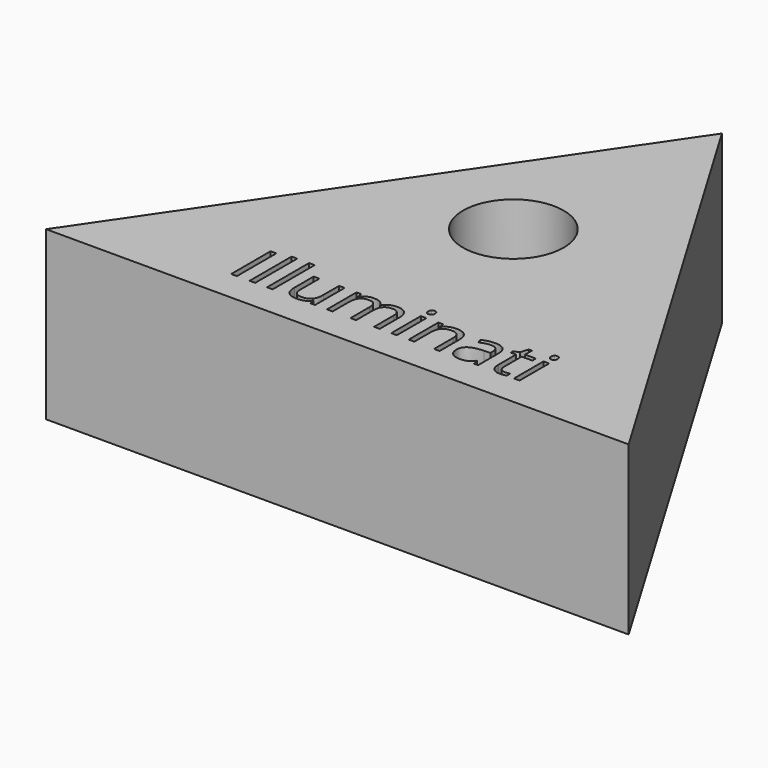
from build123d import *

# Parameters (mm, degrees)
F0_W     = 0.869968364
F0_H     = 7.4856599907
F0_W_2   = 0.850308062
F0_H_2   = 7.96733739
F0_H_3   = 5.6113778656
F1_DEPTH = 25.4
F2_R     = 8.2585004596
F3_DEPTH = 25.4
F4_DEPTH = 25.4
F5_R     = 7.6325291167
F6_DEPTH = 25.4


with BuildPart() as f1:
    # F0 (on Top) → F1 (new body)
    with BuildSketch(Plane.XY):
        Polygon((41.2079915404, -22.3341081291), (0, 46.8701533973), (-47.1847243607, -22.3341081291), align=None)
        with Locations((-22.4430542352, -13.8728049527)):
            Rectangle(F0_W, F0_H, mode=Mode.SUBTRACT)
        with BuildLine():
            Line((-14.8386132532, -12.0042570824), (-13.9784750403, -12.0042570824))
            Line((-13.9784750403, -12.0042570824), (-13.9784750403, -15.6446896714))
            add(Edge.make_bspline(
                [(-13.9784750403, -15.6446896714), (-13.9784750403, -16.3311618833), (-13.6663677458, -16.6686637345)],
                knots=[0, 0, 0, 1, 1, 1], degree=2))
            add(Edge.make_bspline(
                [(-13.6663677458, -16.6686637345), (-13.3542604514, -17.0061655857), (-12.6890869, -17.0061655857)],
                knots=[0, 0, 0, 1, 1, 1], degree=2))
            add(Edge.make_bspline(
                [(-12.6890869, -17.0061655857), (-11.8076500265, -17.0061655857), (-11.4013371183, -16.5253073657)],
                knots=[0, 0, 0, 1, 1, 1], degree=2))
            add(Edge.make_bspline(
                [(-11.4013371183, -16.5253073657), (-10.9950242101, -16.0444491456), (-10.9950242101, -14.953302384)],
                knots=[0, 0, 0, 1, 1, 1], degree=2))
            Line((-10.9950242101, -14.953302384), (-10.9950242101, -12.0042570824))
            Line((-10.9950242101, -12.0042570824), (-10.1447161481, -12.0042570824))
            Line((-10.1447161481, -12.0042570824), (-10.1447161481, -17.615634948))
            Line((-10.1447161481, -17.615634948), (-10.8459335865, -17.615634948))
            Line((-10.8459335865, -17.615634948), (-10.9688104741, -16.8636283961))
            Line((-10.9688104741, -16.8636283961), (-11.0146845121, -16.8636283961))
            add(Edge.make_bspline(
                [(-11.0146845121, -16.8636283961), (-11.2751835137, -17.2781330968), (-11.7388389695, -17.4984923152)],
                knots=[0, 0, 0, 1, 1, 1], degree=2))
            add(Edge.make_bspline(
                [(-11.7388389695, -17.4984923152), (-12.2024944253, -17.7188515336), (-12.7972185611, -17.7188515336)],
                knots=[0, 0, 0, 1, 1, 1], degree=2))
            add(Edge.make_bspline(
                [(-12.7972185611, -17.7188515336), (-13.8211926242, -17.7188515336), (-14.3299029387, -17.2322590588)],
                knots=[0, 0, 0, 1, 1, 1], degree=2))
            add(Edge.make_bspline(
                [(-14.3299029387, -17.2322590588), (-14.8386132532, -16.745666584), (-14.8386132532, -15.6758184829)],
                knots=[0, 0, 0, 1, 1, 1], degree=2))
            Line((-14.8386132532, -15.6758184829), (-14.8386132532, -12.0042570824))
        make_face(mode=Mode.SUBTRACT)
        with BuildLine():
            Line((-0.3407788786, -17.615634948), (-1.1894485821, -17.615634948))
            Line((-1.1894485821, -17.615634948), (-1.1894485821, -13.965372208))
            add(Edge.make_bspline(
                [(-1.1894485821, -13.965372208), (-1.1894485821, -13.2936452226), (-1.4761613198, -12.9586009092)],
                knots=[0, 0, 0, 1, 1, 1], degree=2))
            add(Edge.make_bspline(
                [(-1.4761613198, -12.9586009092), (-1.7628740574, -12.6235565957), (-2.3674283443, -12.6235565957)],
                knots=[0, 0, 0, 1, 1, 1], degree=2))
            add(Edge.make_bspline(
                [(-2.3674283443, -12.6235565957), (-3.1603938587, -12.6235565957), (-3.5396738517, -13.079020259)],
                knots=[0, 0, 0, 1, 1, 1], degree=2))
            add(Edge.make_bspline(
                [(-3.5396738517, -13.079020259), (-3.9189538446, -13.5344839222), (-3.9189538446, -14.4814551358)],
                knots=[0, 0, 0, 1, 1, 1], degree=2))
            Line((-3.9189538446, -14.4814551358), (-3.9189538446, -17.615634948))
            Line((-3.9189538446, -17.615634948), (-4.7692619066, -17.615634948))
            Line((-4.7692619066, -17.615634948), (-4.7692619066, -13.965372208))
            add(Edge.make_bspline(
                [(-4.7692619066, -13.965372208), (-4.7692619066, -13.2936452226), (-5.0559746443, -12.9586009092)],
                knots=[0, 0, 0, 1, 1, 1], degree=2))
            add(Edge.make_bspline(
                [(-5.0559746443, -12.9586009092), (-5.3426873819, -12.6235565957), (-5.9521567443, -12.6235565957)],
                knots=[0, 0, 0, 1, 1, 1], degree=2))
            add(Edge.make_bspline(
                [(-5.9521567443, -12.6235565957), (-6.7500373342, -12.6235565957), (-7.1211255347, -13.101957278)],
                knots=[0, 0, 0, 1, 1, 1], degree=2))
            add(Edge.make_bspline(
                [(-7.1211255347, -13.101957278), (-7.4922137351, -13.5803579603), (-7.4922137351, -14.6715047219)],
                knots=[0, 0, 0, 1, 1, 1], degree=2))
            Line((-7.4922137351, -14.6715047219), (-7.4922137351, -17.615634948))
            Line((-7.4922137351, -17.615634948), (-8.3425217971, -17.615634948))
            Line((-8.3425217971, -17.615634948), (-8.3425217971, -12.0042570824))
            Line((-8.3425217971, -12.0042570824), (-7.6511345097, -12.0042570824))
            Line((-7.6511345097, -12.0042570824), (-7.5135123956, -12.7726472193))
            Line((-7.5135123956, -12.7726472193), (-7.4725534331, -12.7726472193))
            add(Edge.make_bspline(
                [(-7.4725534331, -12.7726472193), (-7.2317147335, -12.3630575941), (-6.7934538345, -12.1320490455)],
                knots=[0, 0, 0, 1, 1, 1], degree=2))
            add(Edge.make_bspline(
                [(-6.7934538345, -12.1320490455), (-6.3551929355, -11.9010404968), (-5.8128962717, -11.9010404968)],
                knots=[0, 0, 0, 1, 1, 1], degree=2))
            add(Edge.make_bspline(
                [(-5.8128962717, -11.9010404968), (-4.4972943955, -11.9010404968), (-4.0926198457, -12.8545651444)],
                knots=[0, 0, 0, 1, 1, 1], degree=2))
            Line((-4.0926198457, -12.8545651444), (-4.0516608832, -12.8545651444))
            add(Edge.make_bspline(
                [(-4.0516608832, -12.8545651444), (-3.8009920326, -12.4138467076), (-3.325048888, -12.1574436022)],
                knots=[0, 0, 0, 1, 1, 1], degree=2))
            add(Edge.make_bspline(
                [(-3.325048888, -12.1574436022), (-2.8491057435, -11.9010404968), (-2.2396363812, -11.9010404968)],
                knots=[0, 0, 0, 1, 1, 1], degree=2))
            add(Edge.make_bspline(
                [(-2.2396363812, -11.9010404968), (-1.2877500922, -11.9010404968), (-0.8142644854, -12.3900905093)],
                knots=[0, 0, 0, 1, 1, 1], degree=2))
            add(Edge.make_bspline(
                [(-0.8142644854, -12.3900905093), (-0.3407788786, -12.8791405219), (-0.3407788786, -13.955542057)],
                knots=[0, 0, 0, 1, 1, 1], degree=2))
            Line((-0.3407788786, -13.955542057), (-0.3407788786, -17.615634948))
        make_face(mode=Mode.SUBTRACT)
        with Locations((-19.6578447837, -13.631966253)):
            Rectangle(F0_W_2, F0_H_2, mode=Mode.SUBTRACT)
        with Locations((-17.0053423707, -13.631966253)):
            Rectangle(F0_W_2, F0_H_2, mode=Mode.SUBTRACT)
        with Locations((1.8357803898, -14.8099460152)):
            Rectangle(F0_W_2, F0_H_3, mode=Mode.SUBTRACT)
        with BuildLine():
            Line((8.75374916, -17.615634948), (7.903441098, -17.615634948))
            Line((7.903441098, -17.615634948), (7.903441098, -13.98503251))
            add(Edge.make_bspline(
                [(7.903441098, -13.98503251), (7.903441098, -13.3001986566), (7.5913338036, -12.9618776262)],
                knots=[0, 0, 0, 1, 1, 1], degree=2))
            add(Edge.make_bspline(
                [(7.5913338036, -12.9618776262), (7.2792265091, -12.6235565957), (6.6124145993, -12.6235565957)],
                knots=[0, 0, 0, 1, 1, 1], degree=2))
            add(Edge.make_bspline(
                [(6.6124145993, -12.6235565957), (5.7326160843, -12.6235565957), (5.323026459, -13.0994997402)],
                knots=[0, 0, 0, 1, 1, 1], degree=2))
            add(Edge.make_bspline(
                [(5.323026459, -13.0994997402), (4.9134368338, -13.5754428848), (4.9134368338, -14.6715047219)],
                knots=[0, 0, 0, 1, 1, 1], degree=2))
            Line((4.9134368338, -14.6715047219), (4.9134368338, -17.615634948))
            Line((4.9134368338, -17.615634948), (4.0631287718, -17.615634948))
            Line((4.0631287718, -17.615634948), (4.0631287718, -12.0042570824))
            Line((4.0631287718, -12.0042570824), (4.7545160592, -12.0042570824))
            Line((4.7545160592, -12.0042570824), (4.8921381733, -12.7726472193))
            Line((4.8921381733, -12.7726472193), (4.9330971358, -12.7726472193))
            add(Edge.make_bspline(
                [(4.9330971358, -12.7726472193), (5.195234496, -12.3581425186), (5.666262565, -12.1295915077)],
                knots=[0, 0, 0, 1, 1, 1], degree=2))
            add(Edge.make_bspline(
                [(5.666262565, -12.1295915077), (6.137290634, -11.9010404968), (6.7156311848, -11.9010404968)],
                knots=[0, 0, 0, 1, 1, 1], degree=2))
            add(Edge.make_bspline(
                [(6.7156311848, -11.9010404968), (7.7297750969, -11.9010404968), (8.2417621284, -12.3900905093)],
                knots=[0, 0, 0, 1, 1, 1], degree=2))
            add(Edge.make_bspline(
                [(8.2417621284, -12.3900905093), (8.75374916, -12.8791405219), (8.75374916, -13.955542057)],
                knots=[0, 0, 0, 1, 1, 1], degree=2))
            Line((8.75374916, -13.955542057), (8.75374916, -17.615634948))
        make_face(mode=Mode.SUBTRACT)
        with BuildLine():
            Line((14.5797519892, -17.615634948), (13.9489839664, -17.615634948))
            Line((13.9489839664, -17.615634948), (13.7802330408, -16.8161159996))
            Line((13.7802330408, -16.8161159996), (13.7392740782, -16.8161159996))
            add(Edge.make_bspline(
                [(13.7392740782, -16.8161159996), (13.319854302, -17.3436674369), (12.9028920635, -17.5312594852)],
                knots=[0, 0, 0, 1, 1, 1], degree=2))
            add(Edge.make_bspline(
                [(12.9028920635, -17.5312594852), (12.485929825, -17.7188515336), (11.8600768777, -17.7188515336)],
                knots=[0, 0, 0, 1, 1, 1], degree=2))
            add(Edge.make_bspline(
                [(11.8600768777, -17.7188515336), (11.0261524007, -17.7188515336), (10.552666794, -17.2879632478)],
                knots=[0, 0, 0, 1, 1, 1], degree=2))
            add(Edge.make_bspline(
                [(10.552666794, -17.2879632478), (10.0791811872, -16.8570749621), (10.0791811872, -16.0641094476)],
                knots=[0, 0, 0, 1, 1, 1], degree=2))
            add(Edge.make_bspline(
                [(10.0791811872, -16.0641094476), (10.0791811872, -14.3651316822), (12.7972179402, -14.2832137572)],
                knots=[0, 0, 0, 1, 1, 1], degree=2))
            Line((12.7972179402, -14.2832137572), (13.7491042292, -14.2520849456))
            Line((13.7491042292, -14.2520849456), (13.7491042292, -13.9031145849))
            add(Edge.make_bspline(
                [(13.7491042292, -13.9031145849), (13.7491042292, -13.2428561091), (13.4656682086, -12.9282912769)],
                knots=[0, 0, 0, 1, 1, 1], degree=2))
            add(Edge.make_bspline(
                [(13.4656682086, -12.9282912769), (13.1822321879, -12.6137264447), (12.5563792406, -12.6137264447)],
                knots=[0, 0, 0, 1, 1, 1], degree=2))
            add(Edge.make_bspline(
                [(12.5563792406, -12.6137264447), (11.8551618022, -12.6137264447), (10.9704482117, -13.042976372)],
                knots=[0, 0, 0, 1, 1, 1], degree=2))
            Line((10.9704482117, -13.042976372), (10.7083108515, -12.3925480471))
            add(Edge.make_bspline(
                [(10.7083108515, -12.3925480471), (11.1228155523, -12.1680929325), (11.6167806403, -12.0403009694)],
                knots=[0, 0, 0, 1, 1, 1], degree=2))
            add(Edge.make_bspline(
                [(11.6167806403, -12.0403009694), (12.1107457283, -11.9125090063), (12.6088067126, -11.9125090063)],
                knots=[0, 0, 0, 1, 1, 1], degree=2))
            add(Edge.make_bspline(
                [(12.6088067126, -11.9125090063), (13.6114821152, -11.9125090063), (14.0956170522, -12.3573233393)],
                knots=[0, 0, 0, 1, 1, 1], degree=2))
            add(Edge.make_bspline(
                [(14.0956170522, -12.3573233393), (14.5797519892, -12.8021376723), (14.5797519892, -13.7851527729)],
                knots=[0, 0, 0, 1, 1, 1], degree=2))
            Line((14.5797519892, -13.7851527729), (14.5797519892, -17.615634948))
        make_face(mode=Mode.SUBTRACT)
        with BuildLine():
            add(Edge.make_bspline(
                [(17.4812848943, -16.7448474048), (17.722123594, -17.0159957367), (18.1415433702, -17.0159957367)],
                knots=[0, 0, 0, 1, 1, 1], degree=2))
            add(Edge.make_bspline(
                [(18.1415433702, -17.0159957367), (18.3676368433, -17.0159957367), (18.5773467314, -16.9832285667)],
                knots=[0, 0, 0, 1, 1, 1], degree=2))
            add(Edge.make_bspline(
                [(18.5773467314, -16.9832285667), (18.7870566196, -16.9504613966), (18.9099335071, -16.9144175096)],
                knots=[0, 0, 0, 1, 1, 1], degree=2))
            Line((18.9099335071, -16.9144175096), (18.9099335071, -17.5648458345))
            add(Edge.make_bspline(
                [(18.9099335071, -17.5648458345), (18.772311393, -17.6303801745), (18.5036205989, -17.674615854)],
                knots=[0, 0, 0, 1, 1, 1], degree=2))
            add(Edge.make_bspline(
                [(18.5036205989, -17.674615854), (18.2349298047, -17.7188515336), (18.0186664826, -17.7188515336)],
                knots=[0, 0, 0, 1, 1, 1], degree=2))
            add(Edge.make_bspline(
                [(18.0186664826, -17.7188515336), (16.3917764912, -17.7188515336), (16.3917764912, -16.0034901831)],
                knots=[0, 0, 0, 1, 1, 1], degree=2))
            Line((16.3917764912, -16.0034901831), (16.3917764912, -12.6645155582))
            Line((16.3917764912, -12.6645155582), (15.5873424673, -12.6645155582))
            Line((15.5873424673, -12.6645155582), (15.5873424673, -12.254925933))
            Line((15.5873424673, -12.254925933), (16.3917764912, -11.9010404968))
            Line((16.3917764912, -11.9010404968), (16.7489386444, -10.7034004327))
            Line((16.7489386444, -10.7034004327), (17.2404461947, -10.7034004327))
            Line((17.2404461947, -10.7034004327), (17.2404461947, -12.0042570824))
            Line((17.2404461947, -12.0042570824), (18.8689745446, -12.0042570824))
            Line((18.8689745446, -12.0042570824), (18.8689745446, -12.6645155582))
            Line((18.8689745446, -12.6645155582), (17.2404461947, -12.6645155582))
            Line((17.2404461947, -12.6645155582), (17.2404461947, -15.9674462961))
            add(Edge.make_bspline(
                [(17.2404461947, -15.9674462961), (17.2404461947, -16.4736990729), (17.4812848943, -16.7448474048)],
                knots=[0, 0, 0, 1, 1, 1], degree=2))
        make_face(mode=Mode.SUBTRACT)
        with BuildLine():
            add(Edge.make_bspline(
                [(1.4818949536, -10.9114719623), (1.3385385848, -10.7705731312), (1.3385385848, -10.4838603935)],
                knots=[0, 0, 0, 1, 1, 1], degree=2))
            add(Edge.make_bspline(
                [(1.3385385848, -10.4838603935), (1.3385385848, -10.1922325804), (1.4818949536, -10.0562488248)],
                knots=[0, 0, 0, 1, 1, 1], degree=2))
            add(Edge.make_bspline(
                [(1.4818949536, -10.0562488248), (1.6252513225, -9.9202650692), (1.8415146446, -9.9202650692)],
                knots=[0, 0, 0, 1, 1, 1], degree=2))
            add(Edge.make_bspline(
                [(1.8415146446, -9.9202650692), (2.0463094572, -9.9202650692), (2.1945809015, -10.0587063625)],
                knots=[0, 0, 0, 1, 1, 1], degree=2))
            add(Edge.make_bspline(
                [(2.1945809015, -10.0587063625), (2.3428523459, -10.1971476559), (2.3428523459, -10.4838603935)],
                knots=[0, 0, 0, 1, 1, 1], degree=2))
            add(Edge.make_bspline(
                [(2.3428523459, -10.4838603935), (2.3428523459, -10.7705731312), (2.1945809015, -10.9114719623)],
                knots=[0, 0, 0, 1, 1, 1], degree=2))
            add(Edge.make_bspline(
                [(2.1945809015, -10.9114719623), (2.0463094572, -11.0523707933), (1.8415146446, -11.0523707933)],
                knots=[0, 0, 0, 1, 1, 1], degree=2))
            add(Edge.make_bspline(
                [(1.8415146446, -11.0523707933), (1.6252513225, -11.0523707933), (1.4818949536, -10.9114719623)],
                knots=[0, 0, 0, 1, 1, 1], degree=2))
        make_face(mode=Mode.SUBTRACT)
        with Locations((20.4557247527, -14.8099460152)):
            Rectangle(F0_W_2, F0_H_3, mode=Mode.SUBTRACT)
        with BuildLine():
            add(Edge.make_bspline(
                [(20.1018393165, -10.9114719623), (19.9584829477, -10.7705731312), (19.9584829477, -10.4838603935)],
                knots=[0, 0, 0, 1, 1, 1], degree=2))
            add(Edge.make_bspline(
                [(19.9584829477, -10.4838603935), (19.9584829477, -10.1922325804), (20.1018393165, -10.0562488248)],
                knots=[0, 0, 0, 1, 1, 1], degree=2))
            add(Edge.make_bspline(
                [(20.1018393165, -10.0562488248), (20.2451956854, -9.9202650692), (20.4614590075, -9.9202650692)],
                knots=[0, 0, 0, 1, 1, 1], degree=2))
            add(Edge.make_bspline(
                [(20.4614590075, -9.9202650692), (20.6662538201, -9.9202650692), (20.8145252644, -10.0587063625)],
                knots=[0, 0, 0, 1, 1, 1], degree=2))
            add(Edge.make_bspline(
                [(20.8145252644, -10.0587063625), (20.9627967088, -10.1971476559), (20.9627967088, -10.4838603935)],
                knots=[0, 0, 0, 1, 1, 1], degree=2))
            add(Edge.make_bspline(
                [(20.9627967088, -10.4838603935), (20.9627967088, -10.7705731312), (20.8145252644, -10.9114719623)],
                knots=[0, 0, 0, 1, 1, 1], degree=2))
            add(Edge.make_bspline(
                [(20.8145252644, -10.9114719623), (20.6662538201, -11.0523707933), (20.4614590075, -11.0523707933)],
                knots=[0, 0, 0, 1, 1, 1], degree=2))
            add(Edge.make_bspline(
                [(20.4614590075, -11.0523707933), (20.2451956854, -11.0523707933), (20.1018393165, -10.9114719623)],
                knots=[0, 0, 0, 1, 1, 1], degree=2))
        make_face(mode=Mode.SUBTRACT)
    extrude(amount=F1_DEPTH)

    # F2 (on face) → F3 (cut)
    with BuildSketch(Plane.XY.offset(25.4)):
        with Locations((0, 17.6369454712)):
            Circle(F2_R)
    extrude(amount=-F3_DEPTH, mode=Mode.SUBTRACT)

    # F0 (on Top) → F4 (join)
    with BuildSketch(Plane.XY):
        Polygon((41.2079915404, -22.3341081291), (0, 46.8701533973), (-47.1847243607, -22.3341081291), align=None)
        with Locations((-22.4430542352, -13.8728049527)):
            Rectangle(F0_W, F0_H, mode=Mode.SUBTRACT)
        with BuildLine():
            Line((-14.8386132532, -12.0042570824), (-13.9784750403, -12.0042570824))
            Line((-13.9784750403, -12.0042570824), (-13.9784750403, -15.6446896714))
            add(Edge.make_bspline(
                [(-13.9784750403, -15.6446896714), (-13.9784750403, -16.3311618833), (-13.6663677458, -16.6686637345)],
                knots=[0, 0, 0, 1, 1, 1], degree=2))
            add(Edge.make_bspline(
                [(-13.6663677458, -16.6686637345), (-13.3542604514, -17.0061655857), (-12.6890869, -17.0061655857)],
                knots=[0, 0, 0, 1, 1, 1], degree=2))
            add(Edge.make_bspline(
                [(-12.6890869, -17.0061655857), (-11.8076500265, -17.0061655857), (-11.4013371183, -16.5253073657)],
                knots=[0, 0, 0, 1, 1, 1], degree=2))
            add(Edge.make_bspline(
                [(-11.4013371183, -16.5253073657), (-10.9950242101, -16.0444491456), (-10.9950242101, -14.953302384)],
                knots=[0, 0, 0, 1, 1, 1], degree=2))
            Line((-10.9950242101, -14.953302384), (-10.9950242101, -12.0042570824))
            Line((-10.9950242101, -12.0042570824), (-10.1447161481, -12.0042570824))
            Line((-10.1447161481, -12.0042570824), (-10.1447161481, -17.615634948))
            Line((-10.1447161481, -17.615634948), (-10.8459335865, -17.615634948))
            Line((-10.8459335865, -17.615634948), (-10.9688104741, -16.8636283961))
            Line((-10.9688104741, -16.8636283961), (-11.0146845121, -16.8636283961))
            add(Edge.make_bspline(
                [(-11.0146845121, -16.8636283961), (-11.2751835137, -17.2781330968), (-11.7388389695, -17.4984923152)],
                knots=[0, 0, 0, 1, 1, 1], degree=2))
            add(Edge.make_bspline(
                [(-11.7388389695, -17.4984923152), (-12.2024944253, -17.7188515336), (-12.7972185611, -17.7188515336)],
                knots=[0, 0, 0, 1, 1, 1], degree=2))
            add(Edge.make_bspline(
                [(-12.7972185611, -17.7188515336), (-13.8211926242, -17.7188515336), (-14.3299029387, -17.2322590588)],
                knots=[0, 0, 0, 1, 1, 1], degree=2))
            add(Edge.make_bspline(
                [(-14.3299029387, -17.2322590588), (-14.8386132532, -16.745666584), (-14.8386132532, -15.6758184829)],
                knots=[0, 0, 0, 1, 1, 1], degree=2))
            Line((-14.8386132532, -15.6758184829), (-14.8386132532, -12.0042570824))
        make_face(mode=Mode.SUBTRACT)
        with BuildLine():
            Line((-0.3407788786, -17.615634948), (-1.1894485821, -17.615634948))
            Line((-1.1894485821, -17.615634948), (-1.1894485821, -13.965372208))
            add(Edge.make_bspline(
                [(-1.1894485821, -13.965372208), (-1.1894485821, -13.2936452226), (-1.4761613198, -12.9586009092)],
                knots=[0, 0, 0, 1, 1, 1], degree=2))
            add(Edge.make_bspline(
                [(-1.4761613198, -12.9586009092), (-1.7628740574, -12.6235565957), (-2.3674283443, -12.6235565957)],
                knots=[0, 0, 0, 1, 1, 1], degree=2))
            add(Edge.make_bspline(
                [(-2.3674283443, -12.6235565957), (-3.1603938587, -12.6235565957), (-3.5396738517, -13.079020259)],
                knots=[0, 0, 0, 1, 1, 1], degree=2))
            add(Edge.make_bspline(
                [(-3.5396738517, -13.079020259), (-3.9189538446, -13.5344839222), (-3.9189538446, -14.4814551358)],
                knots=[0, 0, 0, 1, 1, 1], degree=2))
            Line((-3.9189538446, -14.4814551358), (-3.9189538446, -17.615634948))
            Line((-3.9189538446, -17.615634948), (-4.7692619066, -17.615634948))
            Line((-4.7692619066, -17.615634948), (-4.7692619066, -13.965372208))
            add(Edge.make_bspline(
                [(-4.7692619066, -13.965372208), (-4.7692619066, -13.2936452226), (-5.0559746443, -12.9586009092)],
                knots=[0, 0, 0, 1, 1, 1], degree=2))
            add(Edge.make_bspline(
                [(-5.0559746443, -12.9586009092), (-5.3426873819, -12.6235565957), (-5.9521567443, -12.6235565957)],
                knots=[0, 0, 0, 1, 1, 1], degree=2))
            add(Edge.make_bspline(
                [(-5.9521567443, -12.6235565957), (-6.7500373342, -12.6235565957), (-7.1211255347, -13.101957278)],
                knots=[0, 0, 0, 1, 1, 1], degree=2))
            add(Edge.make_bspline(
                [(-7.1211255347, -13.101957278), (-7.4922137351, -13.5803579603), (-7.4922137351, -14.6715047219)],
                knots=[0, 0, 0, 1, 1, 1], degree=2))
            Line((-7.4922137351, -14.6715047219), (-7.4922137351, -17.615634948))
            Line((-7.4922137351, -17.615634948), (-8.3425217971, -17.615634948))
            Line((-8.3425217971, -17.615634948), (-8.3425217971, -12.0042570824))
            Line((-8.3425217971, -12.0042570824), (-7.6511345097, -12.0042570824))
            Line((-7.6511345097, -12.0042570824), (-7.5135123956, -12.7726472193))
            Line((-7.5135123956, -12.7726472193), (-7.4725534331, -12.7726472193))
            add(Edge.make_bspline(
                [(-7.4725534331, -12.7726472193), (-7.2317147335, -12.3630575941), (-6.7934538345, -12.1320490455)],
                knots=[0, 0, 0, 1, 1, 1], degree=2))
            add(Edge.make_bspline(
                [(-6.7934538345, -12.1320490455), (-6.3551929355, -11.9010404968), (-5.8128962717, -11.9010404968)],
                knots=[0, 0, 0, 1, 1, 1], degree=2))
            add(Edge.make_bspline(
                [(-5.8128962717, -11.9010404968), (-4.4972943955, -11.9010404968), (-4.0926198457, -12.8545651444)],
                knots=[0, 0, 0, 1, 1, 1], degree=2))
            Line((-4.0926198457, -12.8545651444), (-4.0516608832, -12.8545651444))
            add(Edge.make_bspline(
                [(-4.0516608832, -12.8545651444), (-3.8009920326, -12.4138467076), (-3.325048888, -12.1574436022)],
                knots=[0, 0, 0, 1, 1, 1], degree=2))
            add(Edge.make_bspline(
                [(-3.325048888, -12.1574436022), (-2.8491057435, -11.9010404968), (-2.2396363812, -11.9010404968)],
                knots=[0, 0, 0, 1, 1, 1], degree=2))
            add(Edge.make_bspline(
                [(-2.2396363812, -11.9010404968), (-1.2877500922, -11.9010404968), (-0.8142644854, -12.3900905093)],
                knots=[0, 0, 0, 1, 1, 1], degree=2))
            add(Edge.make_bspline(
                [(-0.8142644854, -12.3900905093), (-0.3407788786, -12.8791405219), (-0.3407788786, -13.955542057)],
                knots=[0, 0, 0, 1, 1, 1], degree=2))
            Line((-0.3407788786, -13.955542057), (-0.3407788786, -17.615634948))
        make_face(mode=Mode.SUBTRACT)
        with Locations((-19.6578447837, -13.631966253)):
            Rectangle(F0_W_2, F0_H_2, mode=Mode.SUBTRACT)
        with Locations((-17.0053423707, -13.631966253)):
            Rectangle(F0_W_2, F0_H_2, mode=Mode.SUBTRACT)
        with Locations((1.8357803898, -14.8099460152)):
            Rectangle(F0_W_2, F0_H_3, mode=Mode.SUBTRACT)
        with BuildLine():
            Line((8.75374916, -17.615634948), (7.903441098, -17.615634948))
            Line((7.903441098, -17.615634948), (7.903441098, -13.98503251))
            add(Edge.make_bspline(
                [(7.903441098, -13.98503251), (7.903441098, -13.3001986566), (7.5913338036, -12.9618776262)],
                knots=[0, 0, 0, 1, 1, 1], degree=2))
            add(Edge.make_bspline(
                [(7.5913338036, -12.9618776262), (7.2792265091, -12.6235565957), (6.6124145993, -12.6235565957)],
                knots=[0, 0, 0, 1, 1, 1], degree=2))
            add(Edge.make_bspline(
                [(6.6124145993, -12.6235565957), (5.7326160843, -12.6235565957), (5.323026459, -13.0994997402)],
                knots=[0, 0, 0, 1, 1, 1], degree=2))
            add(Edge.make_bspline(
                [(5.323026459, -13.0994997402), (4.9134368338, -13.5754428848), (4.9134368338, -14.6715047219)],
                knots=[0, 0, 0, 1, 1, 1], degree=2))
            Line((4.9134368338, -14.6715047219), (4.9134368338, -17.615634948))
            Line((4.9134368338, -17.615634948), (4.0631287718, -17.615634948))
            Line((4.0631287718, -17.615634948), (4.0631287718, -12.0042570824))
            Line((4.0631287718, -12.0042570824), (4.7545160592, -12.0042570824))
            Line((4.7545160592, -12.0042570824), (4.8921381733, -12.7726472193))
            Line((4.8921381733, -12.7726472193), (4.9330971358, -12.7726472193))
            add(Edge.make_bspline(
                [(4.9330971358, -12.7726472193), (5.195234496, -12.3581425186), (5.666262565, -12.1295915077)],
                knots=[0, 0, 0, 1, 1, 1], degree=2))
            add(Edge.make_bspline(
                [(5.666262565, -12.1295915077), (6.137290634, -11.9010404968), (6.7156311848, -11.9010404968)],
                knots=[0, 0, 0, 1, 1, 1], degree=2))
            add(Edge.make_bspline(
                [(6.7156311848, -11.9010404968), (7.7297750969, -11.9010404968), (8.2417621284, -12.3900905093)],
                knots=[0, 0, 0, 1, 1, 1], degree=2))
            add(Edge.make_bspline(
                [(8.2417621284, -12.3900905093), (8.75374916, -12.8791405219), (8.75374916, -13.955542057)],
                knots=[0, 0, 0, 1, 1, 1], degree=2))
            Line((8.75374916, -13.955542057), (8.75374916, -17.615634948))
        make_face(mode=Mode.SUBTRACT)
        with BuildLine():
            Line((14.5797519892, -17.615634948), (13.9489839664, -17.615634948))
            Line((13.9489839664, -17.615634948), (13.7802330408, -16.8161159996))
            Line((13.7802330408, -16.8161159996), (13.7392740782, -16.8161159996))
            add(Edge.make_bspline(
                [(13.7392740782, -16.8161159996), (13.319854302, -17.3436674369), (12.9028920635, -17.5312594852)],
                knots=[0, 0, 0, 1, 1, 1], degree=2))
            add(Edge.make_bspline(
                [(12.9028920635, -17.5312594852), (12.485929825, -17.7188515336), (11.8600768777, -17.7188515336)],
                knots=[0, 0, 0, 1, 1, 1], degree=2))
            add(Edge.make_bspline(
                [(11.8600768777, -17.7188515336), (11.0261524007, -17.7188515336), (10.552666794, -17.2879632478)],
                knots=[0, 0, 0, 1, 1, 1], degree=2))
            add(Edge.make_bspline(
                [(10.552666794, -17.2879632478), (10.0791811872, -16.8570749621), (10.0791811872, -16.0641094476)],
                knots=[0, 0, 0, 1, 1, 1], degree=2))
            add(Edge.make_bspline(
                [(10.0791811872, -16.0641094476), (10.0791811872, -14.3651316822), (12.7972179402, -14.2832137572)],
                knots=[0, 0, 0, 1, 1, 1], degree=2))
            Line((12.7972179402, -14.2832137572), (13.7491042292, -14.2520849456))
            Line((13.7491042292, -14.2520849456), (13.7491042292, -13.9031145849))
            add(Edge.make_bspline(
                [(13.7491042292, -13.9031145849), (13.7491042292, -13.2428561091), (13.4656682086, -12.9282912769)],
                knots=[0, 0, 0, 1, 1, 1], degree=2))
            add(Edge.make_bspline(
                [(13.4656682086, -12.9282912769), (13.1822321879, -12.6137264447), (12.5563792406, -12.6137264447)],
                knots=[0, 0, 0, 1, 1, 1], degree=2))
            add(Edge.make_bspline(
                [(12.5563792406, -12.6137264447), (11.8551618022, -12.6137264447), (10.9704482117, -13.042976372)],
                knots=[0, 0, 0, 1, 1, 1], degree=2))
            Line((10.9704482117, -13.042976372), (10.7083108515, -12.3925480471))
            add(Edge.make_bspline(
                [(10.7083108515, -12.3925480471), (11.1228155523, -12.1680929325), (11.6167806403, -12.0403009694)],
                knots=[0, 0, 0, 1, 1, 1], degree=2))
            add(Edge.make_bspline(
                [(11.6167806403, -12.0403009694), (12.1107457283, -11.9125090063), (12.6088067126, -11.9125090063)],
                knots=[0, 0, 0, 1, 1, 1], degree=2))
            add(Edge.make_bspline(
                [(12.6088067126, -11.9125090063), (13.6114821152, -11.9125090063), (14.0956170522, -12.3573233393)],
                knots=[0, 0, 0, 1, 1, 1], degree=2))
            add(Edge.make_bspline(
                [(14.0956170522, -12.3573233393), (14.5797519892, -12.8021376723), (14.5797519892, -13.7851527729)],
                knots=[0, 0, 0, 1, 1, 1], degree=2))
            Line((14.5797519892, -13.7851527729), (14.5797519892, -17.615634948))
        make_face(mode=Mode.SUBTRACT)
        with BuildLine():
            add(Edge.make_bspline(
                [(17.4812848943, -16.7448474048), (17.722123594, -17.0159957367), (18.1415433702, -17.0159957367)],
                knots=[0, 0, 0, 1, 1, 1], degree=2))
            add(Edge.make_bspline(
                [(18.1415433702, -17.0159957367), (18.3676368433, -17.0159957367), (18.5773467314, -16.9832285667)],
                knots=[0, 0, 0, 1, 1, 1], degree=2))
            add(Edge.make_bspline(
                [(18.5773467314, -16.9832285667), (18.7870566196, -16.9504613966), (18.9099335071, -16.9144175096)],
                knots=[0, 0, 0, 1, 1, 1], degree=2))
            Line((18.9099335071, -16.9144175096), (18.9099335071, -17.5648458345))
            add(Edge.make_bspline(
                [(18.9099335071, -17.5648458345), (18.772311393, -17.6303801745), (18.5036205989, -17.674615854)],
                knots=[0, 0, 0, 1, 1, 1], degree=2))
            add(Edge.make_bspline(
                [(18.5036205989, -17.674615854), (18.2349298047, -17.7188515336), (18.0186664826, -17.7188515336)],
                knots=[0, 0, 0, 1, 1, 1], degree=2))
            add(Edge.make_bspline(
                [(18.0186664826, -17.7188515336), (16.3917764912, -17.7188515336), (16.3917764912, -16.0034901831)],
                knots=[0, 0, 0, 1, 1, 1], degree=2))
            Line((16.3917764912, -16.0034901831), (16.3917764912, -12.6645155582))
            Line((16.3917764912, -12.6645155582), (15.5873424673, -12.6645155582))
            Line((15.5873424673, -12.6645155582), (15.5873424673, -12.254925933))
            Line((15.5873424673, -12.254925933), (16.3917764912, -11.9010404968))
            Line((16.3917764912, -11.9010404968), (16.7489386444, -10.7034004327))
            Line((16.7489386444, -10.7034004327), (17.2404461947, -10.7034004327))
            Line((17.2404461947, -10.7034004327), (17.2404461947, -12.0042570824))
            Line((17.2404461947, -12.0042570824), (18.8689745446, -12.0042570824))
            Line((18.8689745446, -12.0042570824), (18.8689745446, -12.6645155582))
            Line((18.8689745446, -12.6645155582), (17.2404461947, -12.6645155582))
            Line((17.2404461947, -12.6645155582), (17.2404461947, -15.9674462961))
            add(Edge.make_bspline(
                [(17.2404461947, -15.9674462961), (17.2404461947, -16.4736990729), (17.4812848943, -16.7448474048)],
                knots=[0, 0, 0, 1, 1, 1], degree=2))
        make_face(mode=Mode.SUBTRACT)
        with BuildLine():
            add(Edge.make_bspline(
                [(1.4818949536, -10.9114719623), (1.3385385848, -10.7705731312), (1.3385385848, -10.4838603935)],
                knots=[0, 0, 0, 1, 1, 1], degree=2))
            add(Edge.make_bspline(
                [(1.3385385848, -10.4838603935), (1.3385385848, -10.1922325804), (1.4818949536, -10.0562488248)],
                knots=[0, 0, 0, 1, 1, 1], degree=2))
            add(Edge.make_bspline(
                [(1.4818949536, -10.0562488248), (1.6252513225, -9.9202650692), (1.8415146446, -9.9202650692)],
                knots=[0, 0, 0, 1, 1, 1], degree=2))
            add(Edge.make_bspline(
                [(1.8415146446, -9.9202650692), (2.0463094572, -9.9202650692), (2.1945809015, -10.0587063625)],
                knots=[0, 0, 0, 1, 1, 1], degree=2))
            add(Edge.make_bspline(
                [(2.1945809015, -10.0587063625), (2.3428523459, -10.1971476559), (2.3428523459, -10.4838603935)],
                knots=[0, 0, 0, 1, 1, 1], degree=2))
            add(Edge.make_bspline(
                [(2.3428523459, -10.4838603935), (2.3428523459, -10.7705731312), (2.1945809015, -10.9114719623)],
                knots=[0, 0, 0, 1, 1, 1], degree=2))
            add(Edge.make_bspline(
                [(2.1945809015, -10.9114719623), (2.0463094572, -11.0523707933), (1.8415146446, -11.0523707933)],
                knots=[0, 0, 0, 1, 1, 1], degree=2))
            add(Edge.make_bspline(
                [(1.8415146446, -11.0523707933), (1.6252513225, -11.0523707933), (1.4818949536, -10.9114719623)],
                knots=[0, 0, 0, 1, 1, 1], degree=2))
        make_face(mode=Mode.SUBTRACT)
        with Locations((20.4557247527, -14.8099460152)):
            Rectangle(F0_W_2, F0_H_3, mode=Mode.SUBTRACT)
        with BuildLine():
            add(Edge.make_bspline(
                [(20.1018393165, -10.9114719623), (19.9584829477, -10.7705731312), (19.9584829477, -10.4838603935)],
                knots=[0, 0, 0, 1, 1, 1], degree=2))
            add(Edge.make_bspline(
                [(19.9584829477, -10.4838603935), (19.9584829477, -10.1922325804), (20.1018393165, -10.0562488248)],
                knots=[0, 0, 0, 1, 1, 1], degree=2))
            add(Edge.make_bspline(
                [(20.1018393165, -10.0562488248), (20.2451956854, -9.9202650692), (20.4614590075, -9.9202650692)],
                knots=[0, 0, 0, 1, 1, 1], degree=2))
            add(Edge.make_bspline(
                [(20.4614590075, -9.9202650692), (20.6662538201, -9.9202650692), (20.8145252644, -10.0587063625)],
                knots=[0, 0, 0, 1, 1, 1], degree=2))
            add(Edge.make_bspline(
                [(20.8145252644, -10.0587063625), (20.9627967088, -10.1971476559), (20.9627967088, -10.4838603935)],
                knots=[0, 0, 0, 1, 1, 1], degree=2))
            add(Edge.make_bspline(
                [(20.9627967088, -10.4838603935), (20.9627967088, -10.7705731312), (20.8145252644, -10.9114719623)],
                knots=[0, 0, 0, 1, 1, 1], degree=2))
            add(Edge.make_bspline(
                [(20.8145252644, -10.9114719623), (20.6662538201, -11.0523707933), (20.4614590075, -11.0523707933)],
                knots=[0, 0, 0, 1, 1, 1], degree=2))
            add(Edge.make_bspline(
                [(20.4614590075, -11.0523707933), (20.2451956854, -11.0523707933), (20.1018393165, -10.9114719623)],
                knots=[0, 0, 0, 1, 1, 1], degree=2))
        make_face(mode=Mode.SUBTRACT)
    extrude(amount=F4_DEPTH)

    # F5 (on face) → F6 (cut)
    with BuildSketch(Plane.XY.offset(25.4)):
        with Locations((-3.9676427841, 12.2680226341)):
            Circle(F5_R)
    extrude(amount=-F6_DEPTH, mode=Mode.SUBTRACT)


solid = f1.part
